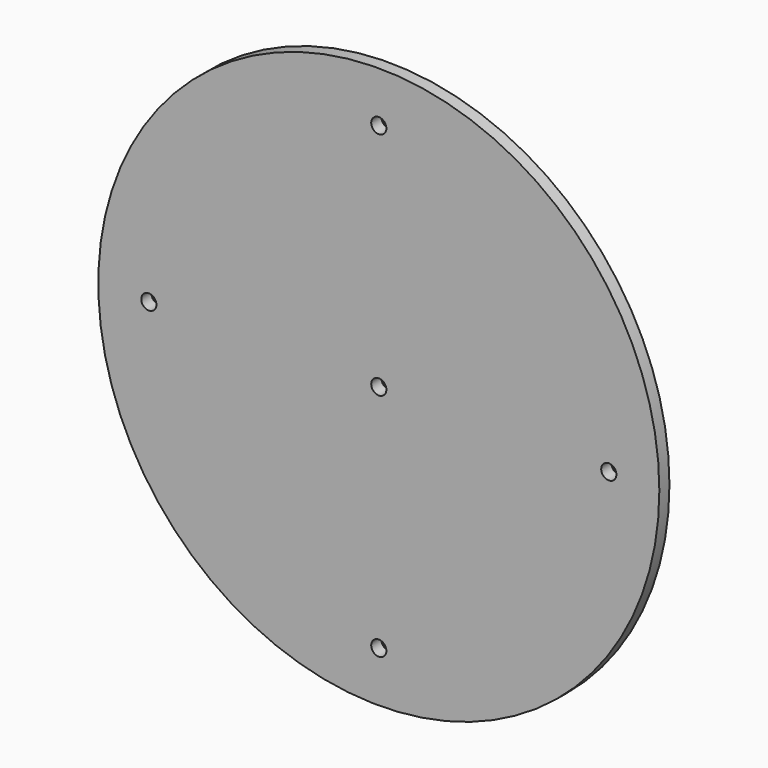
from build123d import *

# Parameters (mm, degrees)
F0_R     = 176.2125
F0_R_2   = 4.7625
F1_DEPTH = 7.9375


with BuildPart() as f1:
    # F0 (on Front) → F1 (new body)
    with BuildSketch(Plane.XZ):
        Circle(F0_R)
        with Locations((0, -144.4625)):
            Circle(F0_R_2, mode=Mode.SUBTRACT)
        with Locations((-144.4625, 0)):
            Circle(F0_R_2, mode=Mode.SUBTRACT)
        Circle(F0_R_2, mode=Mode.SUBTRACT)
        with Locations((144.4625, 0)):
            Circle(F0_R_2, mode=Mode.SUBTRACT)
        with Locations((0, 144.4625)):
            Circle(F0_R_2, mode=Mode.SUBTRACT)
    extrude(amount=F1_DEPTH)


solid = f1.part
